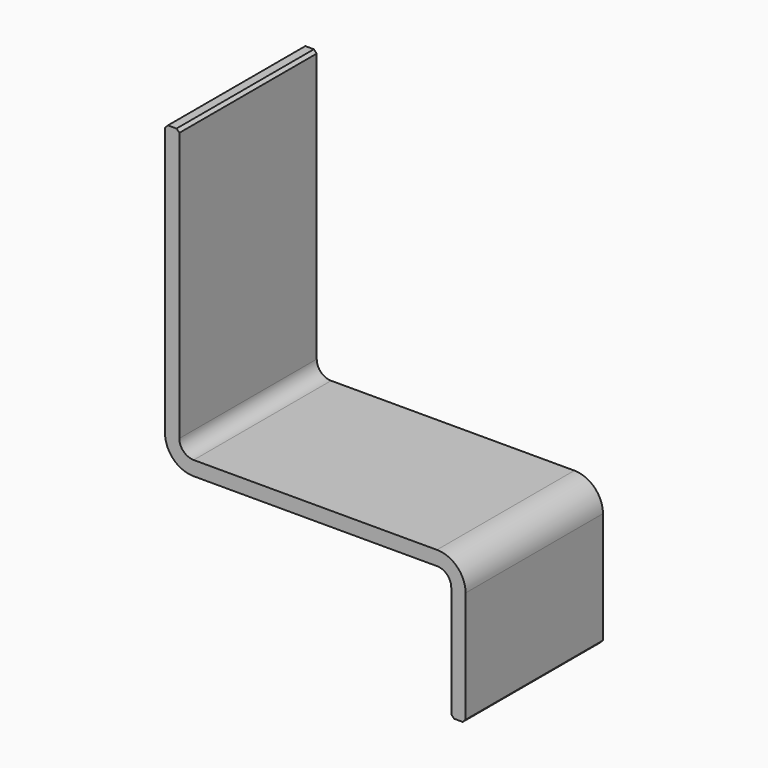
from build123d import *

# Parameters (mm, degrees)
F1_DEPTH = 60
F2_R     = 5
F3_R     = 10
F4_SIZE  = 1


with BuildPart() as f1:
    # F0 (on Front) → F1 (new body)
    with BuildSketch(Plane.XZ):
        Polygon((-45.242744, -36.905519), (-45.242744, 63.094481), (-50.242744, 63.094481), (-50.242744, -41.905519), (49.757256, -41.905519), (49.757256, -86.905519), (54.757256, -86.905519), (54.757256, -36.905519), align=None)
    extrude(amount=F1_DEPTH)

    # F2
    f2_edges = [f1.edges().sort_by_distance(p)[0] for p in [
        (-45.242744, -30, -36.905519),
        (49.757256, -30, -41.905519),
    ]]
    fillet(f2_edges, radius=F2_R)

    # F3
    f3_edges = [f1.edges().sort_by_distance(p)[0] for p in [
        (54.757256, -30, -36.905519),
        (-50.242744, -30, -41.905519),
    ]]
    fillet(f3_edges, radius=F3_R)

    # F4
    f4_edges = [f1.edges().sort_by_distance(p)[0] for p in [
        (-45.242744, -30, 63.094481),
        (-50.242744, -30, 63.094481),
        (54.757256, -30, -86.905519),
        (49.757256, -30, -86.905519),
    ]]
    chamfer(f4_edges, length=F4_SIZE)


solid = f1.part
